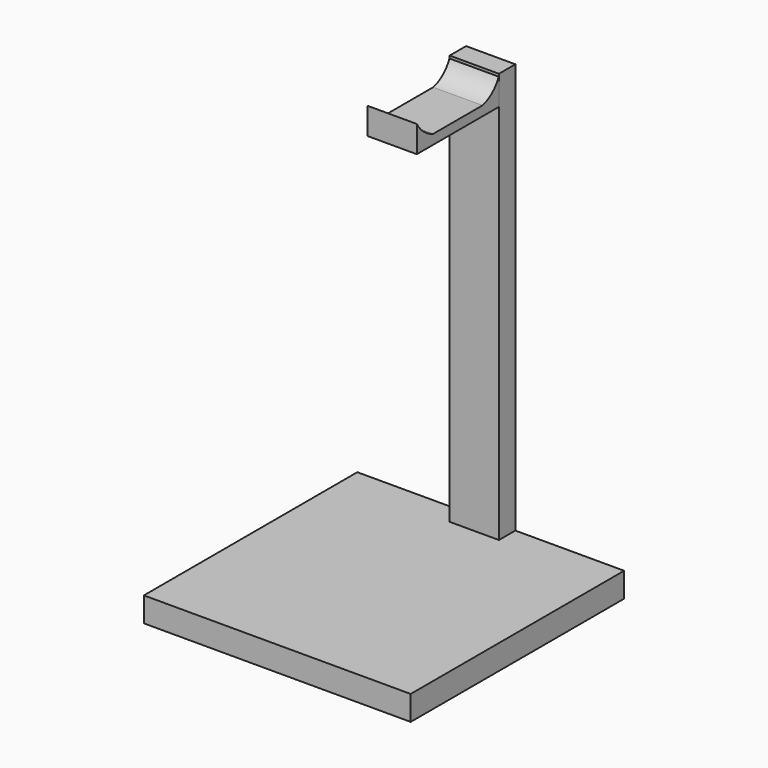
from build123d import *

# Parameters (mm, degrees)
F0_W     = 165.1
F0_H     = 15.24
F1_DEPTH = 82.55
F2_W     = 30.48
F2_H     = 12.7
F3_DEPTH = 254
F5_DEPTH = 15.24


with BuildPart() as f1:
    # F0 (on Front) → F1 (new body, symmetric)
    with BuildSketch(Plane.XZ):
        Rectangle(F0_W, F0_H)
    extrude(amount=F1_DEPTH, both=True)

    # F2 (on face) → F3 (join)
    with BuildSketch(Plane.XY.offset(7.62)):
        with Locations((0, 76.2)):
            Rectangle(F2_W, F2_H)
    extrude(amount=F3_DEPTH)


with BuildPart() as f5:
    # F4 (on Right) → F5 (new body, symmetric)
    with BuildSketch(Plane.YZ):
        Polygon((69.8231831193, 243.6058757288), (69.8231831193, 249.5466768742), (57.1231831193, 249.5466768742), (19.0231831193, 249.5466768742), (6.3231831193, 249.5466768742), (6.3231831193, 243.6058757288), align=None)
        with BuildLine():
            Line((57.1231831193, 249.5466768742), (69.8231831193, 249.5466768742))
            Line((69.8231831193, 249.5466768742), (69.6746185422, 260.0943446159))
            ThreePointArc((69.6746185422, 260.0943446159), (64.6179404455, 253.3698870264), (57.1231831193, 249.5466768742))
        make_face()
        with BuildLine():
            Line((6.3231831193, 249.5466768742), (19.0231831193, 249.5466768742))
            ThreePointArc((19.0231831193, 249.5466768742), (11.7038459616, 253.653372928), (6.3231831193, 260.0943446159))
            Line((6.3231831193, 260.0943446159), (6.3231831193, 249.5466768742))
        make_face()
    extrude(amount=F5_DEPTH, both=True)


solid = Compound([f1.part, f5.part])
